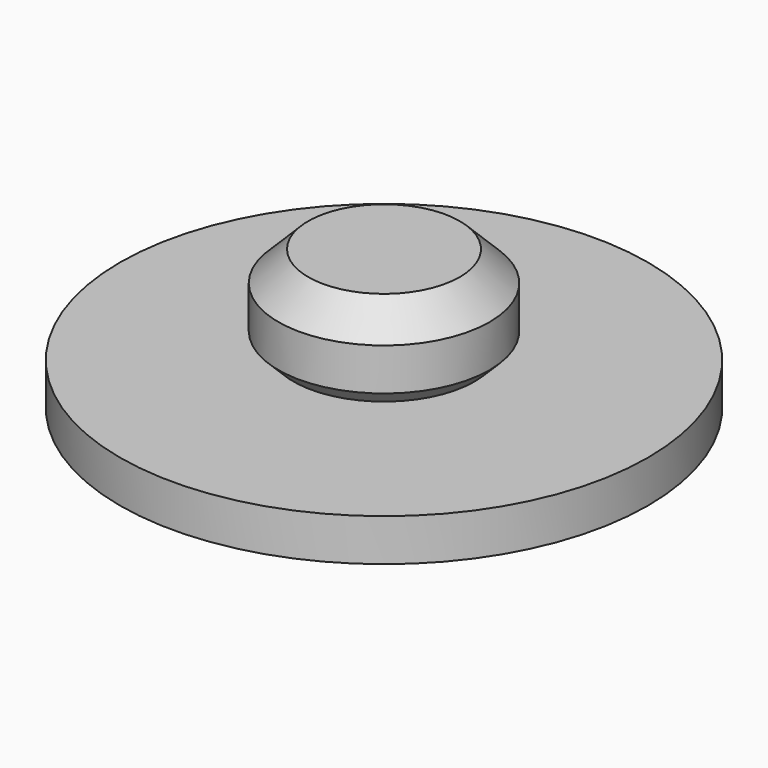
from build123d import *

# Parameters (mm, degrees)
F0_R          = 50
F1_DEPTH      = 24.142136
F1_DEPTH_BACK = 17.071068
F2_SIZE       = 14.142136
F3_SIZE       = 7.071068
F4_R          = 25
F5_DEPTH      = 5
F6_R          = 125
F6_R_2        = 25
F7_DEPTH      = 20


with BuildPart() as f1:
    # F0 (on Top) → F1 (new body, two sides)
    with BuildSketch(Plane.XY) as f1_sk:
        Circle(F0_R)
    extrude(amount=F1_DEPTH)
    extrude(f1_sk.sketch, amount=-F1_DEPTH_BACK)

    # F2
    f2_edges = [f1.edges().sort_by_distance(p)[0] for p in [
        (-50, 0, 24.142136),
    ]]
    chamfer(f2_edges, length=F2_SIZE)

    # F3
    f3_edges = [f1.edges().sort_by_distance(p)[0] for p in [
        (-50, 0, -17.071068),
    ]]
    chamfer(f3_edges, length=F3_SIZE)


with BuildPart() as f5:
    # F4 (on face) → F5 (new body)
    with BuildSketch(Plane(origin=(0, 0, -17.071068), x_dir=(1, 0, 0), z_dir=(0, 0, -1))):
        Circle(F4_R)
    extrude(amount=F5_DEPTH)


with BuildPart() as f7:
    # F6 (on face) → F7 (new body)
    with BuildSketch(Plane(origin=(0, 0, -22.071068), x_dir=(1, 0, 0), z_dir=(0, 0, -1))):
        Circle(F6_R)
        Circle(F6_R_2, mode=Mode.SUBTRACT)
        Circle(F6_R_2)
    extrude(amount=F7_DEPTH)


solid = Compound([f1.part, f5.part, f7.part])
